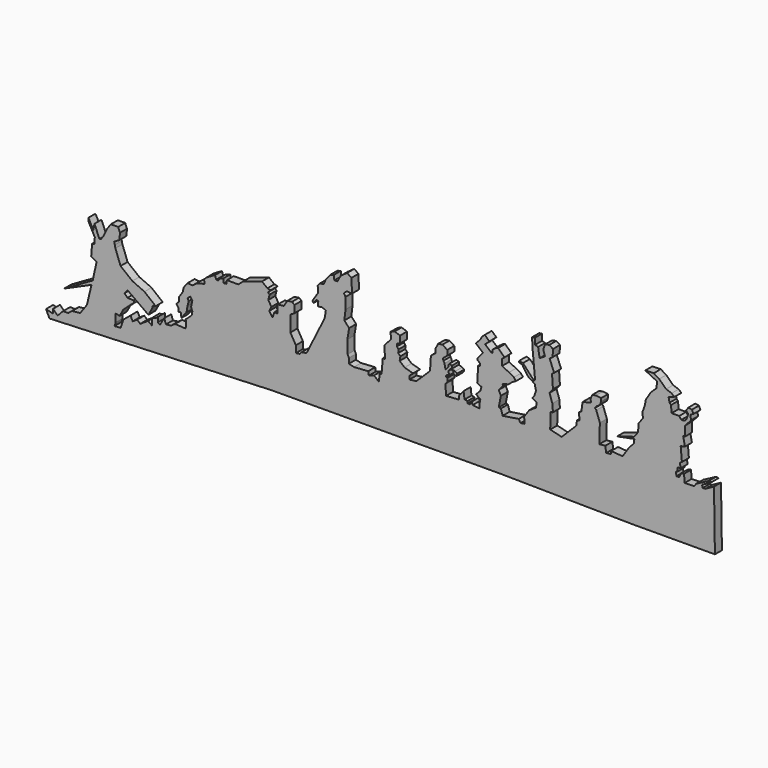
from build123d import *

# Parameters (mm, degrees)
F1_DEPTH = 5.83244


with BuildPart() as f1:
    # F0 (on Front) → F1 (new body)
    with BuildSketch(Plane.XZ):
        Polygon((80.332555, -42.736491), (167.619858, -43.744439), (222.6532, -43.542839), (222.048426, -4.031742), (216.202387, -7.257136), (214.58969, -7.257136), (213.984942, -5.644439), (220.637303, -1.814271), (218.621432, -1.814271), (210.154749, -6.249187), (208.945251, -8.063484), (202.494464, -8.265058), (202.091265, -3.023794), (200.075419, -3.426968), (198.865871, -6.047613), (197.0516, -6.047613), (196.648426, -3.426968), (197.656348, -3.225368), (197.857948, -0.604749), (199.672245, -0.604749), (199.470645, 2.822245), (200.680168, 3.426993), (199.873819, 12.498426), (202.696039, 13.1032), (201.486541, 18.949213), (202.897638, 19.150813), (202.897638, 25.6016), (206.727781, 29.834942), (206.324606, 33.060335), (208.340503, 34.068258), (207.332529, 36.285729), (204.913509, 36.688903), (203.502387, 34.673032), (204.913509, 32.858735), (203.502387, 29.028593), (202.091265, 28.020645), (200.276993, 28.020645), (198.865871, 29.834942), (193.826206, 29.834942), (193.423007, 34.471432), (192.415084, 35.47938), (191.81031, 38.704774), (195.640503, 39.914297), (193.826206, 41.526993), (190.197638, 42.736516), (185.561122, 47.171432), (181.932555, 49.388903), (176.288116, 49.187329), (180.319858, 47.171432), (184.15, 45.357161), (183.746826, 41.123819), (179.916684, 37.495251), (176.69129, 32.253987), (175.884942, 28.222245), (174.473819, 24.392077), (174.675419, 20.56191), (171.853174, 16.731767), (171.45, 11.288903), (168.82938, 7.86191), (157.540477, 4.434942), (169.030955, 6.652387), (168.627781, 3.830168), (165.603987, 0.604774), (161.169071, -6.047613), (153.508735, -5.442839), (153.508735, -7.257136), (150.283342, -7.66031), (149.678593, -3.628568), (145.646826, -4.031742), (146.05, 8.668258), (143.630955, 15.320645), (142.824606, 16.328593), (143.42938, 17.336516), (146.05, 19.150813), (146.856348, 21.368258), (146.856348, 23.384154), (143.42938, 23.787329), (141.010335, 23.384154), (139.800813, 20.56191), (140.203987, 18.546039), (134.559523, 17.134942), (133.753174, 11.288903), (132.140477, 10.28098), (132.543652, 5.442864), (130.72938, 5.03969), (130.527781, 2.015896), (120.65, -7.861884), (112.98969, -6.047613), (113.19129, 4.233342), (114.803987, 4.636516), (114.400813, 9.676206), (112.586516, 15.320645), (114.803987, 18.142864), (114.199213, 27.214297), (115.610335, 28.020645), (112.586516, 35.47938), (114.602387, 36.890503), (114.803987, 41.728593), (112.384942, 43.34129), (109.562697, 42.736516), (108.353174, 39.309548), (109.562697, 35.68098), (105.934129, 33.463509), (104.926206, 39.712722), (102.910335, 40.317471), (102.910335, 44.550813), (100.894464, 44.147638), (101.297638, 37.092077), (102.910335, 19.755561), (102.103987, 19.150813), (94.846826, 27.012722), (92.427781, 27.617471), (92.024606, 26.609548), (94.443652, 25.8032), (98.072245, 20.360335), (102.708735, 17.336516), (103.515084, 13.506374), (102.305561, 10.07938), (101.096039, 8.466684), (103.918258, 6.853987), (103.515084, 3.628593), (99.080168, 0.806374), (95.653174, -4.031742), (95.854774, -8.265058), (93.234129, -8.668233), (92.024606, -6.652362), (81.340477, -8.265058), (80.130955, -4.434916), (78.719858, -4.233316), (80.130955, 3.023819), (78.719858, 6.047638), (81.542077, 9.273032), (81.340477, 10.482555), (84.969045, 11.288903), (87.992864, 13.707948), (90.210335, 14.917471), (88.799213, 16.731767), (85.573819, 18.546039), (80.937303, 20.763509), (80.735729, 24.795251), (82.55, 26.407948), (78.316684, 30.43969), (76.703987, 29.834942), (74.486516, 28.222245), (74.688116, 26.407948), (73.680168, 26.407948), (69.648426, 29.834942), (72.470645, 32.455561), (69.446826, 35.277806), (67.632555, 33.665084), (66.423032, 31.447638), (63.399213, 28.423819), (68.237303, 24.392077), (64.810335, 20.360335), (64.407161, 19.150813), (66.423032, 17.336516), (66.221432, 15.925419), (65.01191, 15.723819), (64.407161, 5.442864), (67.22938, 4.031767), (66.423032, 1.411122), (63.600813, -1.411097), (66.423032, -3.426968), (66.019858, -5.846013), (65.818258, -9.071407), (61.383342, -8.466658), (60.778593, -6.652362), (59.569045, -8.668233), (57.956348, -8.668233), (57.956348, -7.257136), (55.940477, -7.055536), (55.335729, -2.217445), (52.110335, -6.249187), (52.31191, -8.265058), (43.643652, -8.869832), (43.240477, -1.814271), (44.6516, -0.201574), (44.6516, 2.015896), (43.643652, 2.217471), (43.845251, 3.628593), (45.659523, 3.830168), (45.256348, 6.249213), (46.667471, 8.063509), (48.481767, 6.853987), (48.683342, 5.24129), (50.699213, 5.03969), (51.102387, 6.652387), (49.69129, 7.458735), (47.473819, 8.265084), (47.473819, 10.07938), (45.861122, 10.684154), (45.457948, 10.28098), (45.054774, 8.265084), (43.240477, 6.450813), (42.635729, 9.877806), (41.82938, 11.087329), (41.627781, 12.700025), (44.6516, 15.119071), (44.45, 18.344464), (41.224606, 20.360335), (38.402387, 19.957161), (36.588116, 16.530168), (36.78969, 13.909548), (33.564297, 11.490503), (32.959523, 2.217471), (23.888116, -6.652362), (19.2516, -7.257136), (19.453174, -4.83809), (21.670645, -2.822194), (16.026206, -1.209497), (12.800813, 1.612722), (13.203987, 4.434942), (11.792864, 5.846039), (11.994464, 8.063509), (10.986516, 9.474632), (10.986516, 11.288903), (13.002387, 11.893677), (13.002387, 16.530168), (9.373819, 17.73969), (6.5516, 16.530168), (7.156348, 12.498426), (2.721432, 7.660335), (2.923032, -0.604749), (1.51191, -0.403149), (0.705561, -10.079355), (-0.503961, -10.482529), (-1.10871, -15.11902), (-4.334129, -12.4984), (-7.761097, -13.707923), (-8.164271, -11.288878), (-17.638878, -11.893626), (-21.065871, -11.087278), (-21.065871, -7.66031), (-21.872219, -5.846013), (-22.073794, 2.822245), (-20.864271, 9.877806), (-24.089665, 13.304774), (-23.283316, 19.957161), (-23.283316, 27.415896), (-24.492839, 29.230168), (-22.275394, 31.044464), (-19.05, 30.64129), (-19.251574, 39.914297), (-22.275394, 41.728593), (-26.50871, 38.704774), (-28.726181, 34.673032), (-30.742052, 34.673032), (-31.145226, 37.696851), (-33.362697, 37.092077), (-36.58809, 33.060335), (-37.797613, 30.036516), (-40.216658, 29.834942), (-41.829355, 28.020645), (-41.426181, 23.988903), (-45.457923, 17.73969), (-44.45, 16.933342), (-42.837303, 19.352387), (-41.426181, 19.150813), (-41.627755, 15.723819), (-39.20871, 16.328593), (-36.386491, 15.119071), (-37.192839, 10.28098), (-49.28809, -14.111097), (-52.513484, -14.514271), (-53.723007, -15.925368), (-56.343652, -16.328568), (-56.343652, -11.692052), (-59.972219, -5.442839), (-59.77062, 5.24129), (-57.15, 6.853987), (-57.15, 11.692077), (-58.964271, 12.9016), (-61.98809, 12.498426), (-64.407136, 8.668258), (-68.438878, 8.265084), (-68.438878, 2.822245), (-70.656348, 3.023819), (-71.865871, -0.604749), (-74.083316, 2.620645), (-72.672219, 5.442864), (-74.68809, 8.869858), (-73.881742, 12.296851), (-74.889665, 13.304774), (-73.075394, 15.119071), (-75.292839, 15.522245), (-78.921407, 18.344464), (-91.419832, 14.312722), (-94.645226, 11.490503), (-102.305536, 11.490503), (-102.507136, 9.273032), (-104.321407, 8.869858), (-104.724581, 11.692077), (-107.546826, 10.885729), (-107.7484, 9.273032), (-109.361097, 9.474632), (-110.167445, 11.893677), (-113.392839, 10.07938), (-116.013484, 8.466684), (-117.424581, 7.055561), (-117.223007, 4.434942), (-122.061097, 3.225419), (-125.084916, 1.007948), (-128.511884, 1.209548), (-131.132529, -2.217445), (-131.535703, -4.83809), (-134.156348, -8.668233), (-134.156348, -11.490452), (-135.97062, -13.304749), (-134.357923, -15.522194), (-134.559523, -17.53809), (-132.946826, -17.336491), (-132.543652, -20.561884), (-130.527755, -17.739665), (-129.116658, -16.126968), (-128.511884, -12.2968), (-127.705536, -9.071407), (-128.511884, -7.45871), (-126.697613, -6.047613), (-125.286491, -7.861884), (-126.092839, -11.893626), (-125.286491, -14.312671), (-125.689665, -16.731742), (-129.721407, -20.36031), (-129.318233, -23.988878), (-129.923007, -25.803149), (-136.776968, -25.399975), (-139.397613, -27.214271), (-142.824581, -27.617445), (-144.034129, -24.392052), (-146.856348, -29.230142), (-148.267445, -28.222194), (-148.267445, -24.9968), (-149.678568, -26.206323), (-151.896013, -26.609497), (-152.299187, -31.246013), (-154.718233, -29.431742), (-159.959523, -32.85871), (-161.975394, -31.044439), (-164.999187, -33.06031), (-166.41031, -30.036491), (-171.2484, -34.068233), (-173.062697, -39.511097), (-177.094439, -39.712671), (-176.28809, -37.293626), (-176.489665, -32.052362), (-173.667445, -32.657136), (-171.2484, -28.222194), (-166.007136, -23.384104), (-163.991265, -21.973007), (-164.192839, -20.561884), (-168.426181, -20.36031), (-170.442052, -18.344439), (-168.426181, -15.925368), (-165.805536, -17.739665), (-154.516658, -25.803149), (-152.097613, -21.368233), (-151.694439, -19.755536), (-149.678568, -19.150787), (-157.137303, -13.103149), (-165.200787, -9.474581), (-173.062697, -3.225368), (-176.489665, 6.047638), (-176.892839, 7.86191), (-177.296013, 9.676206), (-173.869045, 11.692077), (-173.465871, 16.126993), (-174.675394, 19.150813), (-179.513484, 19.150813), (-182.134129, 15.522245), (-184.15, 11.087329), (-185.964271, 8.466684), (-187.173794, 8.063509), (-190.399187, 15.925419), (-191.205536, 11.893677), (-194.430955, 18.142864), (-194.430955, 15.925419), (-190.197613, 8.063509), (-190.600787, 3.830168), (-192.011884, 3.628593), (-192.616658, -4.031742), (-188.98809, -5.846013), (-191.60871, -17.739665), (-210.557923, -28.625368), (-192.415058, -20.561884), (-195.438878, -33.261884), (-199.873794, -39.511097), (-205.316658, -40.115846), (-207.937303, -42.131742), (-211.364271, -42.131742), (-214.992839, -45.961884), (-218.016658, -42.93809), (-218.016658, -45.76031), (-222.653174, -44.550787), (-220.435703, -49.388878), (-72.269045, -43.341265), align=None)
    extrude(amount=F1_DEPTH)


solid = f1.part
